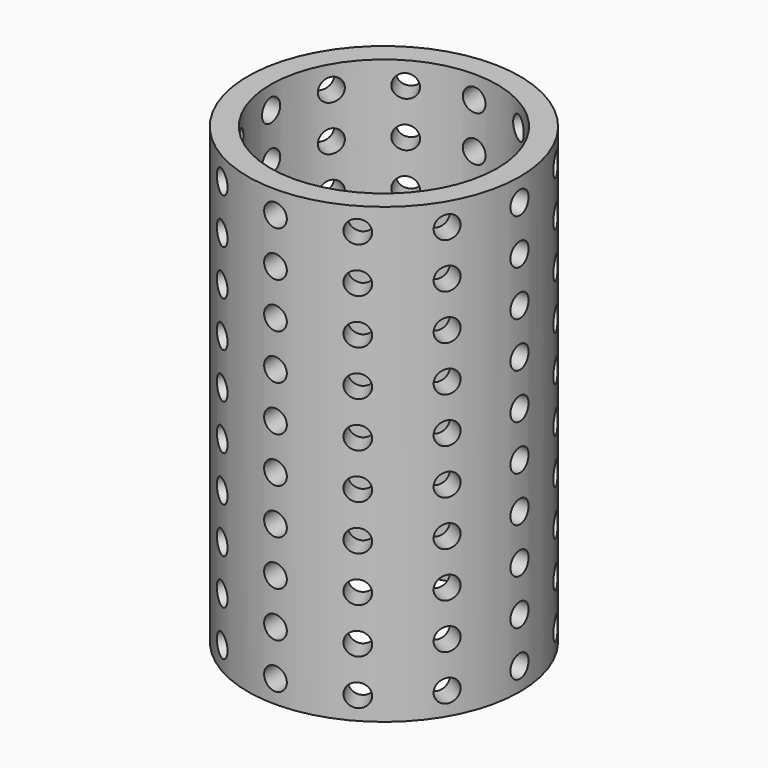
from build123d import *

# Parameters (mm, degrees)
F0_R     = 30
F0_R_2   = 25
F1_DEPTH = 100
F2_R     = 2.5
F3_DEPTH = 30.001
F4_COUNT = 12
F4_ANGLE = 330


with BuildPart() as f1:
    # F0 (on Top) → F1 (new body)
    with BuildSketch(Plane.XY):
        Circle(F0_R)
        Circle(F0_R_2, mode=Mode.SUBTRACT)
    extrude(amount=F1_DEPTH)

    # F2 (on Front) → F3 (cut, through all)
    with BuildSketch(Plane.XZ):
        with Locations((0, 5)):
            Circle(F2_R)
        with Locations((0, 15)):
            Circle(F2_R)
        with Locations((0, 25)):
            Circle(F2_R)
        with Locations((0, 35)):
            Circle(F2_R)
        with Locations((0, 45)):
            Circle(F2_R)
        with Locations((0, 55)):
            Circle(F2_R)
        with Locations((0, 65)):
            Circle(F2_R)
        with Locations((0, 75)):
            Circle(F2_R)
        with Locations((0, 85)):
            Circle(F2_R)
        with Locations((0, 95)):
            Circle(F2_R)
    f3 = extrude(amount=-F3_DEPTH, mode=Mode.SUBTRACT)

    # F4: F3 ×12 about axis
    f4_axis = Axis((0, 0, 0), (0, 0, -1))
    for i in range(1, F4_COUNT):
        add(f3.rotate(f4_axis, i * F4_ANGLE / (F4_COUNT - 1)), mode=Mode.SUBTRACT)


solid = f1.part
